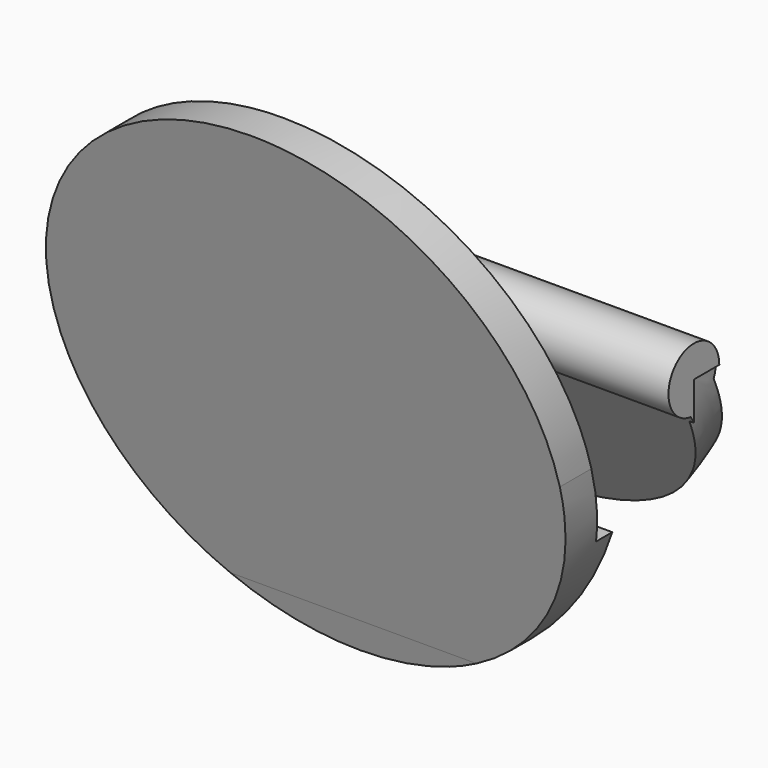
from build123d import *

# Parameters (mm, degrees)
F1_DEPTH  = 22.225
F3_DEPTH  = 1.905
F5_DEPTH  = 38.1
F7_ANGLE  = 90
F9_DEPTH  = 31.75
F11_START = 27.5250845814
F10_R     = 25.4
F11_DEPTH = 40.1837304781


with BuildPart() as f1:
    # F0 (on Right) → F1 (new body, symmetric)
    with BuildSketch(Plane.YZ):
        with BuildLine():
            ThreePointArc((2.9197783942, -1.2472045256), (3.1105402587, -0.6365251756), (3.175, 0))
            ThreePointArc((3.175, 0), (-2.1065171016, 2.3755442957), (-0.3797783942, -3.1522045256))
            ThreePointArc((-0.3797783942, -3.1522045256), (1.5875, -2.749630657), (2.9197783942, -1.2472045256))
        make_face()
        with BuildLine():
            ThreePointArc((2.9197783942, -1.2472045256), (1.5875, -2.749630657), (-0.3797783942, -3.1522045256))
            Line((-0.3797783942, -3.1522045256), (25.0202216058, -47.1462950379))
            Line((25.0202216058, -47.1462950379), (28.3197783942, -45.2412950379))
            Line((28.3197783942, -45.2412950379), (2.9197783942, -1.2472045256))
        make_face()
    extrude(amount=F1_DEPTH, both=True)

    # F2 (on Right) → F3 (join, symmetric)
    with BuildSketch(Plane.YZ):
        with BuildLine():
            Line((26.4980818491, -46.2930520286), (4.9071120764, -8.8963953976))
            ThreePointArc((4.9071120764, -8.8963953976), (2.5335965307, -9.8390288453), (0, -10.16))
            Line((0, -10.16), (-12.7, -10.16))
            Line((-12.7, -10.16), (-12.7, -53.3403694007))
            Line((-12.7, -53.3403694007), (0, -53.3403694007))
            ThreePointArc((0, -53.3403694007), (13.7096045149, -51.5484408285), (26.4980818491, -46.2930520286))
        make_face()
    extrude(amount=F3_DEPTH, both=True)

    # F4 (on Right) → F5 (intersect, symmetric)
    with BuildSketch(Plane.YZ):
        with BuildLine():
            Line((-12.7, -22.225), (0, -22.225))
            ThreePointArc((0, -22.225), (21.2050948807, 6.6554170492), (-12.7, 18.2389864028))
            Line((-12.7, 18.2389864028), (-12.7, -22.225))
        make_face()
    extrude(amount=F5_DEPTH, both=True, mode=Mode.INTERSECT)

    # F6 (on Front) → F7 (revolve, cut)
    with BuildSketch(Plane.XZ):
        with BuildLine():
            Line((29.537089169, 0), (22.098, 0))
            ThreePointArc((22.098, 0), (0, -22.098), (-22.098, 0))
            Line((-22.098, 0), (-30.2814375609, 0))
            Line((-30.2814375609, 0), (-30.2814375609, -27.1878223866))
            Line((-30.2814375609, -27.1878223866), (29.537089169, -27.1878223866))
            Line((29.537089169, -27.1878223866), (29.537089169, 0))
        make_face()
    revolve(axis=Axis((11.049, 0, 0), (1, 0, 0)), revolution_arc=F7_ANGLE, mode=Mode.SUBTRACT)

    # F8 (on Right) → F9 (join, symmetric)
    with BuildSketch(Plane.YZ):
        Polygon((-23.5796823341, 25.4), (-27.5240845814, 25.4), (-14.7630042919, -22.225), (-12.7, -22.225), (-12.7, -7.62), (-14.732, -7.62), align=None)
        Polygon((-12.7, -22.225), (-14.7630042919, -22.225), (-13.9122656059, -25.4), (-11.9874563975, -24.884248927), align=None)
    extrude(amount=F9_DEPTH, both=True)

    # F10 (on Front) → F11 (intersect)
    with BuildSketch(Plane.XZ.offset(F11_START)):
        Circle(F10_R)
    extrude(amount=-F11_DEPTH, mode=Mode.INTERSECT)


solid = f1.part
